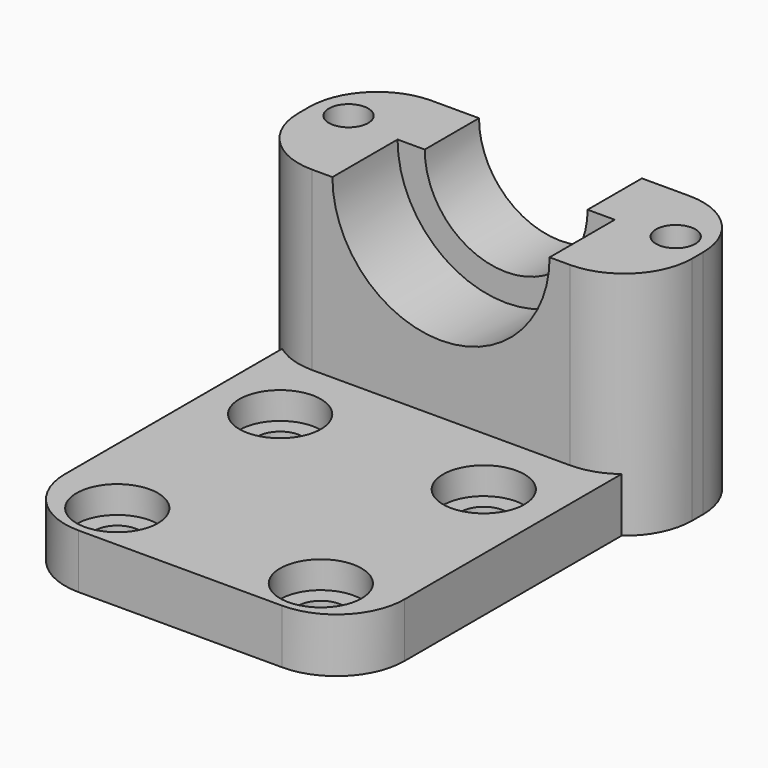
from build123d import *

# Parameters (mm, degrees)
F0_W      = 25
F0_H      = 35
F1_DEPTH  = 4
F2_R      = 1.675
F3_DEPTH  = 25
F4_W      = 25
F4_H      = 11
F5_DEPTH  = 13
F7_DEPTH  = 6
F8_R      = 8
F9_DEPTH  = 6
F2_R_2    = 3
F10_DEPTH = 2
F11_R     = 5
F13_DEPTH = 2
F14_W     = 11
F14_H     = 17
F15_DEPTH = 2
F16_R     = 1.45
F17_DEPTH = 25
F18_R     = 5


with BuildPart() as f1:
    # F0 (on Top) → F1 (new body)
    with BuildSketch(Plane.XY):
        with Locations((12.5, 17.5)):
            Rectangle(F0_W, F0_H)
    extrude(amount=F1_DEPTH)

    # F2 (on face) → F3 (cut)
    with BuildSketch(Plane.XY.offset(4)):
        with BuildLine():
            ThreePointArc((3.325, 18.5605346784), (5, 16.8855346784), (6.675, 18.5605346784))
            ThreePointArc((6.675, 18.5605346784), (5, 20.2355346784), (3.325, 18.5605346784))
        make_face()
        with Locations((20, 18.5605346784)):
            Circle(F2_R)
        with Locations((20, 3.5605346784)):
            Circle(F2_R)
        with Locations((5, 3.5605346784)):
            Circle(F2_R)
    extrude(amount=-F3_DEPTH, mode=Mode.SUBTRACT)

    # F4 (on face) → F5 (join)
    with BuildSketch(Plane.XY.offset(4)):
        with Locations((12.5, 29.5)):
            Rectangle(F4_W, F4_H)
    extrude(amount=F5_DEPTH)

    # F6 (on face) → F7 (cut)
    with BuildSketch(Plane(origin=(0, 35, 0), x_dir=(-1, 0, 0), z_dir=(0, 1, 0))):
        with BuildLine():
            ThreePointArc((-18.5, 17), (-12.5, 11), (-6.5, 17))
            Line((-6.5, 17), (-18.5, 17))
        make_face()
    extrude(amount=-F7_DEPTH, mode=Mode.SUBTRACT)

    # F8 (on face) → F9 (cut)
    with BuildSketch(Plane.XZ.offset(-24)):
        with Locations((12.5, 17)):
            Circle(F8_R)
    extrude(amount=-F9_DEPTH, mode=Mode.SUBTRACT)

    # F2 (on face) → F10 (cut)
    with BuildSketch(Plane.XY.offset(4)):
        with BuildLine():
            ThreePointArc((8, 18.5605346784), (5, 21.5605346784), (2, 18.5605346784))
            ThreePointArc((2, 18.5605346784), (5, 15.5605346784), (8, 18.5605346784))
        make_face()
        with BuildLine():
            ThreePointArc((3.325, 18.5605346784), (5, 20.2355346784), (6.675, 18.5605346784))
            ThreePointArc((6.675, 18.5605346784), (5, 16.8855346784), (3.325, 18.5605346784))
        make_face(mode=Mode.SUBTRACT)
        with Locations((20, 18.5605346784)):
            Circle(F2_R_2)
        with Locations((20, 18.5605346784)):
            Circle(F2_R, mode=Mode.SUBTRACT)
        with Locations((20, 3.5605346784)):
            Circle(F2_R_2)
        with Locations((20, 3.5605346784)):
            Circle(F2_R, mode=Mode.SUBTRACT)
        with Locations((5, 3.5605346784)):
            Circle(F2_R_2)
        with Locations((5, 3.5605346784)):
            Circle(F2_R, mode=Mode.SUBTRACT)
    extrude(amount=-F10_DEPTH, mode=Mode.SUBTRACT)

    # F11
    f11_edges = [f1.edges().sort_by_distance(p)[0] for p in [
        (0, 0, 2),
        (25, 0, 2),
    ]]
    fillet(f11_edges, radius=F11_R)

    # F12 (on face) + F5_face3 (on face) → F13 (join)
    with BuildSketch(Plane(origin=(0, 0, 0), x_dir=(0, -1, 0), z_dir=(-1, 0, 0))):
        Polygon((-35, 17), (-35, 0), (-24, 0), (-24, 4), (-24, 17), align=None)
    with BuildSketch(Plane(origin=(25, 25.1653992395, 6.6216730038), x_dir=(0, 1, 0), z_dir=(1, 0, 0))):
        Polygon((-1.1653992395, -2.6216730038), (-20.1653992395, -2.6216730038), (-20.1653992395, -6.6216730038), (9.8346007605, -6.6216730038), (9.8346007605, 10.3783269962), (-1.1653992395, 10.3783269962), align=None)
    extrude(amount=F13_DEPTH, dir=(-1, 0, 0))

    # F14 (on face) → F15 (join)
    with BuildSketch(Plane.YZ.offset(25)):
        with Locations((29.5, 8.5)):
            Rectangle(F14_W, F14_H)
    extrude(amount=F15_DEPTH)

    # F16 (on face) → F17 (cut)
    with BuildSketch(Plane.XY.offset(17)):
        with Locations((0.45, 30.55)):
            Circle(F16_R)
        with Locations((24.55, 30.55)):
            Circle(F16_R)
    extrude(amount=-F17_DEPTH, mode=Mode.SUBTRACT)

    # F18
    f18_edges = [f1.edges().sort_by_distance(p)[0] for p in [
        (-2, 24, 8.5),
        (-2, 35, 8.5),
        (27, 35, 8.5),
        (27, 24, 8.5),
    ]]
    fillet(f18_edges, radius=F18_R)


solid = f1.part
